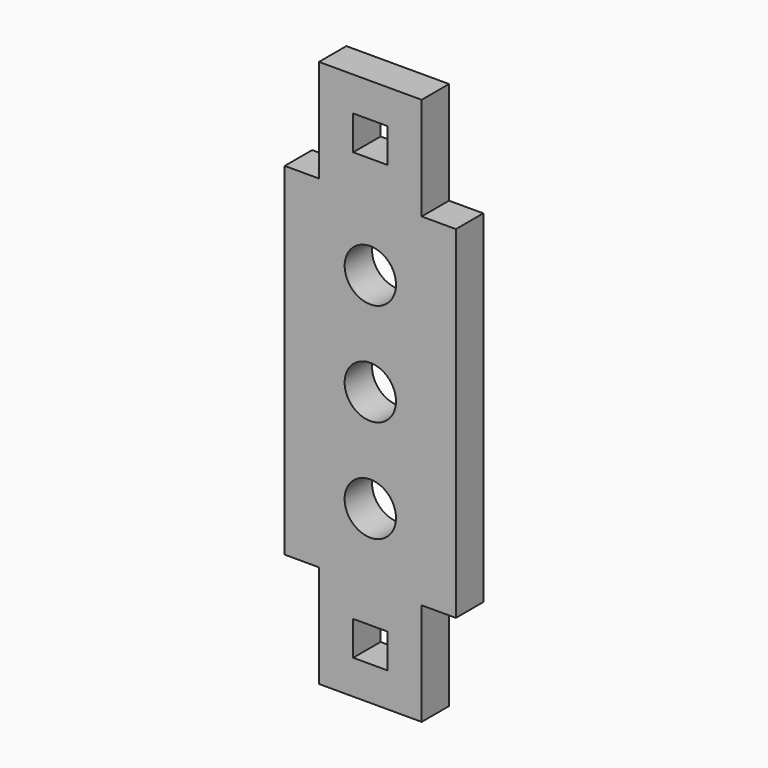
from build123d import *

# Parameters (mm, degrees)
CYLINDER005_R          = 2.25
CYLINDER005_DEPTH      = 3
CYLINDER005_ROLL_ANGLE = 90
CYLINDER006_R          = 2.25
CYLINDER006_DEPTH      = 3
CYLINDER006_ROLL_ANGLE = 90
CYLINDER004_R          = 2.25
CYLINDER004_DEPTH      = 3
CYLINDER004_ROLL_ANGLE = 90
BOX011_W               = 15
BOX011_H               = 3
BOX011_DEPTH           = 30
BOX010_W               = 3
BOX010_H               = 3
BOX010_DEPTH           = 3
BOX009_W               = 9
BOX009_H               = 3
BOX009_DEPTH           = 9
BOX013_W               = 3
BOX013_H               = 3
BOX013_DEPTH           = 3
BOX012_W               = 9
BOX012_H               = 3
BOX012_DEPTH           = 9


with BuildPart() as cylinder005:
    # Cylinder005 → Cylinder005 (new body)
    with BuildSketch(Plane.XY):
        Circle(CYLINDER005_R)
    extrude(amount=CYLINDER005_DEPTH)


with BuildPart() as cylinder005_1:
    # Cylinder005 roll: moved
    add(cylinder005.part.rotate(Axis((0, 0, 0), (1, 0, 0)), CYLINDER005_ROLL_ANGLE))


with BuildPart() as cylinder005_2:
    # Cylinder005 placement: moved
    add(cylinder005_1.part.moved(Location((0, -63, -3))))


with BuildPart() as cylinder006:
    # Cylinder006 → Cylinder006 (new body)
    with BuildSketch(Plane.XY):
        Circle(CYLINDER006_R)
    extrude(amount=CYLINDER006_DEPTH)


with BuildPart() as cylinder006_1:
    # Cylinder006 roll: moved
    add(cylinder006.part.rotate(Axis((0, 0, 0), (1, 0, 0)), CYLINDER006_ROLL_ANGLE))


with BuildPart() as cylinder006_2:
    # Cylinder006 placement: moved
    add(cylinder006_1.part.moved(Location((0, -63, -21))))


with BuildPart() as cylinder004:
    # Cylinder004 → Cylinder004 (new body)
    with BuildSketch(Plane.XY):
        Circle(CYLINDER004_R)
    extrude(amount=CYLINDER004_DEPTH)


with BuildPart() as cylinder004_1:
    # Cylinder004 roll: moved
    add(cylinder004.part.rotate(Axis((0, 0, 0), (1, 0, 0)), CYLINDER004_ROLL_ANGLE))


with BuildPart() as cylinder004_2:
    # Cylinder004 placement: moved
    add(cylinder004_1.part.moved(Location((0, -63, -12))))


with BuildPart() as cube011:
    # Box011 → Box011 (new body)
    with BuildSketch(Plane(origin=(-7.5, -66, -27), x_dir=(1, 0, 0), z_dir=(0, 0, 1))):
        with Locations((7.5, 1.5)):
            Rectangle(BOX011_W, BOX011_H)
    extrude(amount=BOX011_DEPTH)


with BuildPart() as cube010:
    # Box010 → Box010 (new body)
    with BuildSketch(Plane(origin=(-1.5, -66, 6), x_dir=(1, 0, 0), z_dir=(0, 0, 1))):
        with Locations((1.5, 1.5)):
            Rectangle(BOX010_W, BOX010_H)
    extrude(amount=BOX010_DEPTH)


with BuildPart() as cut010:
    # Box009 → Box009 (new body)
    with BuildSketch(Plane(origin=(-4.5, -66, 3), x_dir=(1, 0, 0), z_dir=(0, 0, 1))):
        with Locations((4.5, 1.5)):
            Rectangle(BOX009_W, BOX009_H)
    extrude(amount=BOX009_DEPTH)

    # Cut010: cut Cube010
    add(cube010.part, mode=Mode.SUBTRACT)


with BuildPart() as cube013:
    # Box013 → Box013 (new body)
    with BuildSketch(Plane(origin=(-1.5, -66, 6), x_dir=(1, 0, 0), z_dir=(0, 0, 1))):
        with Locations((1.5, 1.5)):
            Rectangle(BOX013_W, BOX013_H)
    extrude(amount=BOX013_DEPTH)


with BuildPart() as pitchringconnector:
    # Box012 → Box012 (new body)
    with BuildSketch(Plane(origin=(-4.5, -66, 3), x_dir=(1, 0, 0), z_dir=(0, 0, 1))):
        with Locations((4.5, 1.5)):
            Rectangle(BOX012_W, BOX012_H)
    extrude(amount=BOX012_DEPTH)

    # Cut011: cut Cube013
    add(cube013.part, mode=Mode.SUBTRACT)


with BuildPart() as pitchringconnector_1:
    # Cut011 placement: moved
    add(pitchringconnector.part.moved(Location((0, 0, -39))))

    # Fusion: union Cube011, Cut010
    add(cube011.part)
    add(cut010.part)

    # Cut012: cut Cylinder004
    add(cylinder004_2.part, mode=Mode.SUBTRACT)

    # Cut013: cut Cylinder006
    add(cylinder006_2.part, mode=Mode.SUBTRACT)

    # Cut014: cut Cylinder005
    add(cylinder005_2.part, mode=Mode.SUBTRACT)


with BuildPart() as pitchringconnector_2:
    # Cut014 placement: moved
    add(pitchringconnector_1.part.moved(Location((0, 29, -3))))


solid = pitchringconnector_2.part
